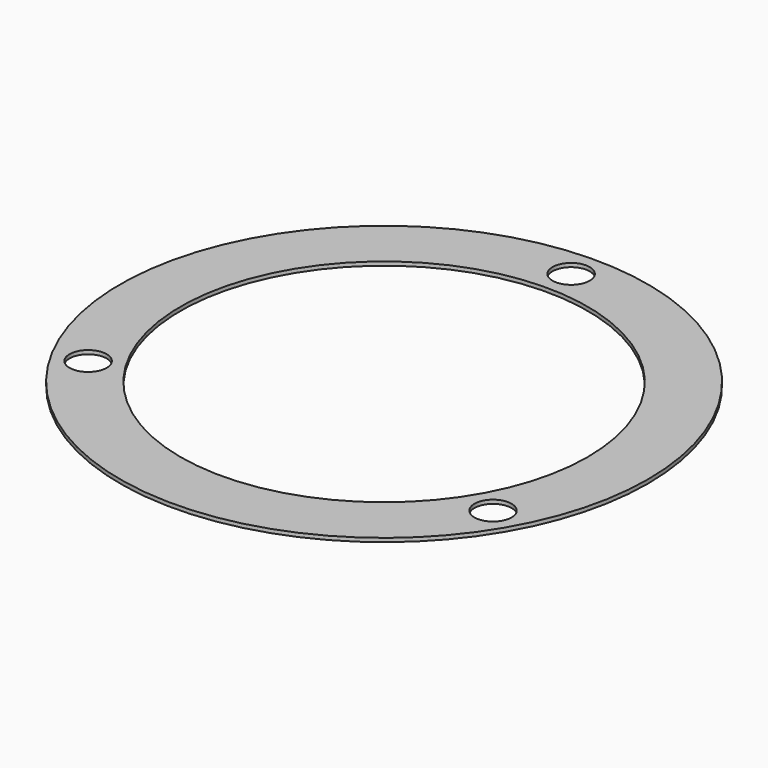
from build123d import *

# Parameters (mm, degrees)
F0_R     = 222.25
F0_R_2   = 15.621
F0_R_3   = 171.45
F1_DEPTH = 1.5875


with BuildPart() as f1:
    # F0 (on Top) → F1 (new body, symmetric)
    with BuildSketch(Plane.XY):
        Circle(F0_R)
        with Locations((-170.477101, -98.425)):
            Circle(F0_R_2, mode=Mode.SUBTRACT)
        with Locations((170.477101, -98.425)):
            Circle(F0_R_2, mode=Mode.SUBTRACT)
        Circle(F0_R_3, mode=Mode.SUBTRACT)
        with Locations((0, 196.85)):
            Circle(F0_R_2, mode=Mode.SUBTRACT)
    extrude(amount=F1_DEPTH, both=True)


solid = f1.part
